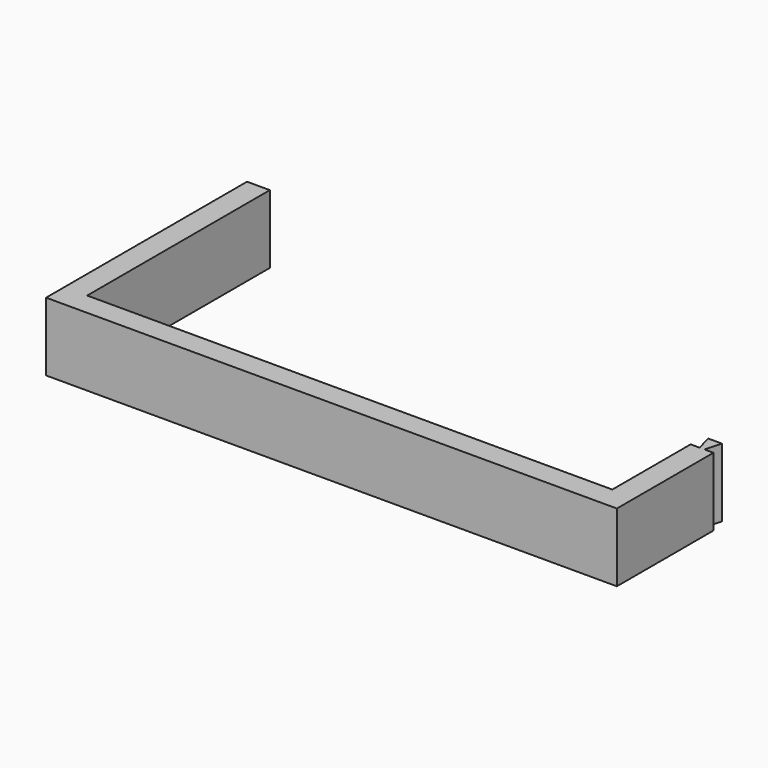
from build123d import *

# Parameters (mm, degrees)
F1_DEPTH = 15


with BuildPart() as f1:
    # F0 (on Top) → F1 (new body)
    with BuildSketch(Plane.XY):
        Polygon((-166.378987, 166.504013), (-171.378987, 166.504013), (-171.378987, 111.504013), (-46.378987, 111.504013), (-46.378987, 137.944043), (-48.332879, 137.944043), (-49.425096, 137.944043), (-51.378987, 137.944043), (-51.378987, 116.504013), (-166.378987, 116.504013), align=None)
        Polygon((-49.425096, 137.944043), (-48.332879, 137.944043), (-47.378987, 141.504013), (-50.378987, 141.504013), align=None)
    extrude(amount=F1_DEPTH)


solid = f1.part
